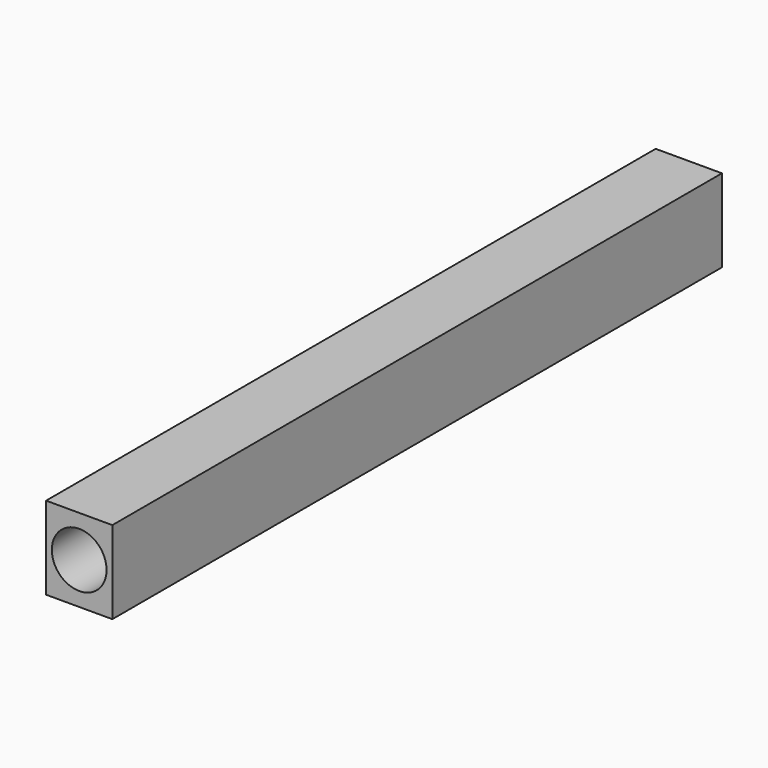
from build123d import *

# Parameters (mm, degrees)
F0_W     = 292.1
F0_H     = 31.75
F1_DEPTH = 20.32
F2_DEPTH = 5.08
F3_DEPTH = 25.4
F4_DEPTH = 25.4
F6_D     = 21
F6_DEPTH = 91
F6_TIP   = 6.3090364998


with BuildPart() as f1:
    # F0 (on Right) → F1 (new body)
    with BuildSketch(Plane.YZ):
        Rectangle(F0_W, F0_H)
    extrude(amount=F1_DEPTH)

    # F2 (add): a face of the model
    f2_faces = [f1.faces().sort_by_distance(p)[0] for p in [
        (20.32, 0, 0),
    ]]
    extrude(f2_faces, amount=F2_DEPTH)

    # F3 (add): a face of the model
    f3_faces = [f1.faces().sort_by_distance(p)[0] for p in [
        (25.4, 0, 0),
    ]]
    extrude(f3_faces, amount=F3_DEPTH)

    # F4 (cut): a face of the model
    f4_faces = [f1.faces().sort_by_distance(p)[0] for p in [
        (50.8, 0, 0),
    ]]
    extrude(f4_faces, amount=-F4_DEPTH, mode=Mode.SUBTRACT)

    # F6
    with Locations(Plane.XZ.offset(146.05)):
        with Locations((12.7, 0)):
            Hole(F6_D / 2, depth=F6_DEPTH)
            with Locations((0, 0, -(F6_DEPTH + F6_TIP / 2))):  # 118° drill point
                Cone(0, F6_D / 2, F6_TIP, mode=Mode.SUBTRACT)


solid = f1.part
